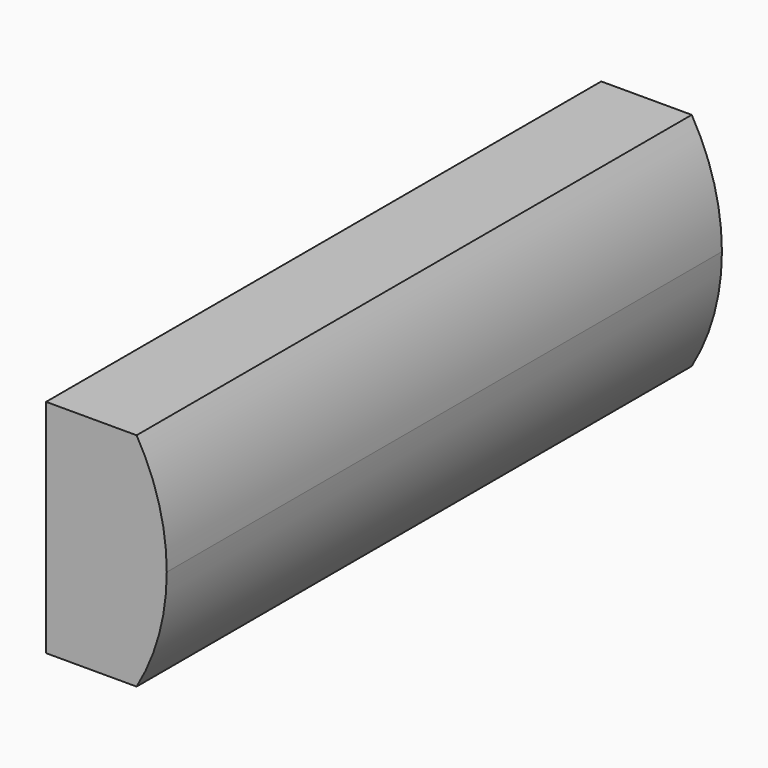
from build123d import *

# Parameters (mm, degrees)
F1_DEPTH = 345


with BuildPart() as f1:
    # F0 (on Front) → F1 (new body)
    with BuildSketch(Plane.XZ):
        with BuildLine():
            Line((0, 110), (0, 55))
            Line((0, 55), (60, 55))
            ThreePointArc((60, 55), (56.182747, 83.504386), (45, 110))
            Line((45, 110), (0, 110))
        make_face()
        with BuildLine():
            Line((0, 55), (0, 0))
            Line((0, 0), (45, 0))
            ThreePointArc((45, 0), (56.182747, 26.495614), (60, 55))
            Line((60, 55), (0, 55))
        make_face()
    extrude(amount=-F1_DEPTH)


solid = f1.part
